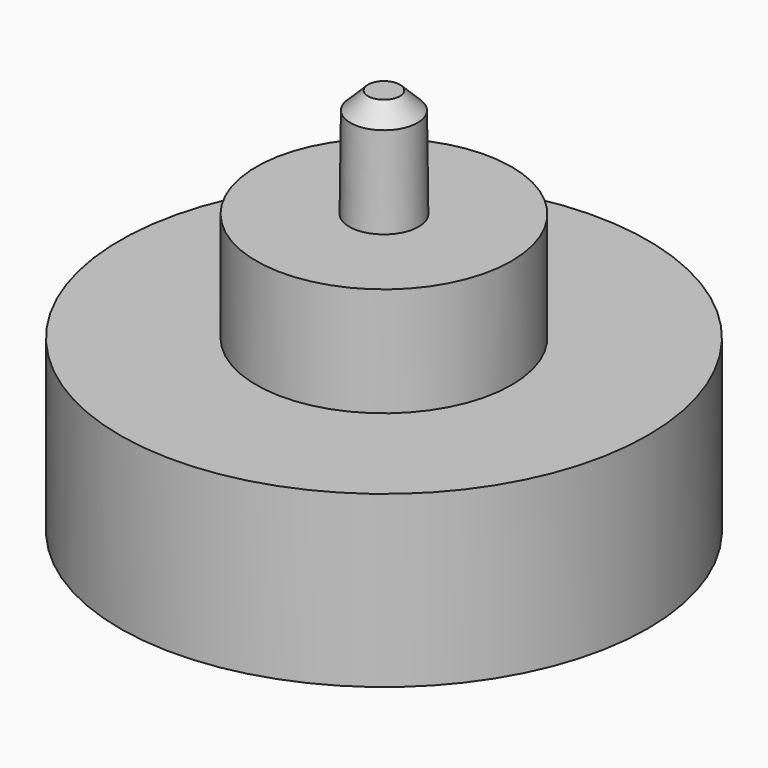
from build123d import *

# Parameters (mm, degrees)
F2_SIZE = 1.27


with BuildPart() as f1:
    # F0 (on Front) → F1 (revolve)
    with BuildSketch(Plane.XZ):
        Polygon((2.54, 0.426363), (19.05, 0.426363), (19.05, 12.7), (9.212586, 12.7), (9.212586, 20.574), (2.54, 20.574), (2.505225, 20.574), (2.413, 28.4226), (0, 28.4226), (0, 8.320278), (2.600999, 8.300127), align=None)
    revolve(axis=Axis((0, 0, 18.371439), (0, 0, -1)))

    # F2
    f2_edges = [f1.edges().sort_by_distance(p)[0] for p in [
        (-2.413, 0, 28.4226),
    ]]
    chamfer(f2_edges, length=F2_SIZE)


solid = f1.part
